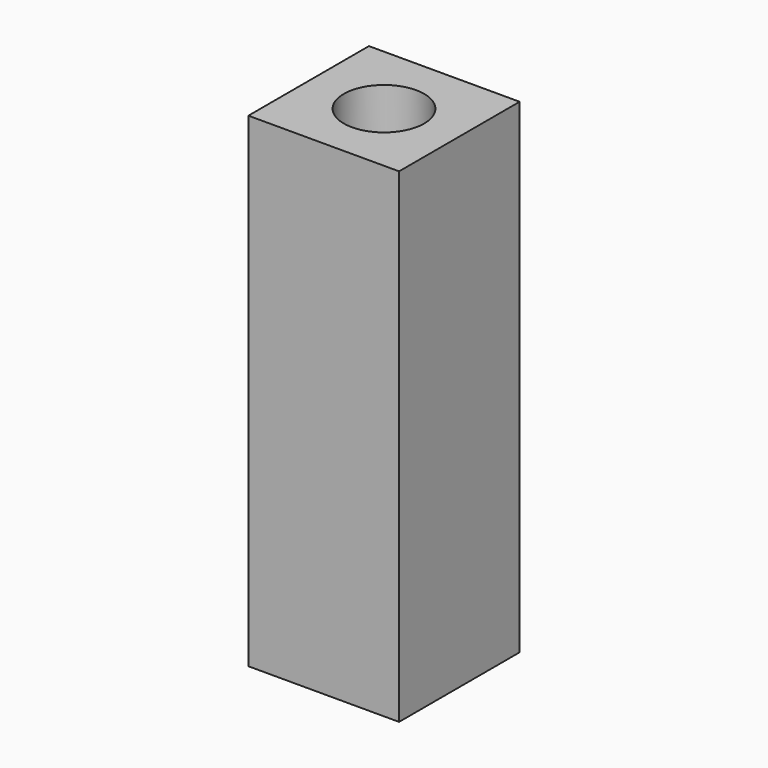
from build123d import *

# Parameters (mm, degrees)
SKETCH097_W      = 6
SKETCH097_H      = 6
EXTRUDE034_DEPTH = 19.3
SKETCH098_R      = 1.6
HOLE020_DEPTH    = 2.3
HOLE020_TIPS_R   = 1.6


with BuildPart() as part:
    # Sketch097 (on Face6 of BaseFeature009) → Extrude034 (new body)
    with BuildSketch(Plane.XY.offset(2)):
        with Locations((79.200001, -104.300002)):
            Rectangle(SKETCH097_W, SKETCH097_H)
    extrude(amount=EXTRUDE034_DEPTH)

    # Sketch098 (on Face6 of Extrude034) → Hole020 (cut)
    with BuildSketch(Plane.XY.offset(21.3)):
        with Locations((79.200001, -104.300002)):
            Circle(SKETCH098_R)
    extrude(amount=-HOLE020_DEPTH, mode=Mode.SUBTRACT)

    # Hole020 tips → Hole020 tip 1 section 0
    with BuildSketch(Plane.XY.offset(19), mode=Mode.PRIVATE) as hole020_tip_1_s0:
        with Locations((79.200001, -104.300002)):
            Circle(HOLE020_TIPS_R)
    loft([hole020_tip_1_s0.sketch, Vertex(79.200001, -104.300002, 18.038623)], mode=Mode.SUBTRACT)


solid = part.part
